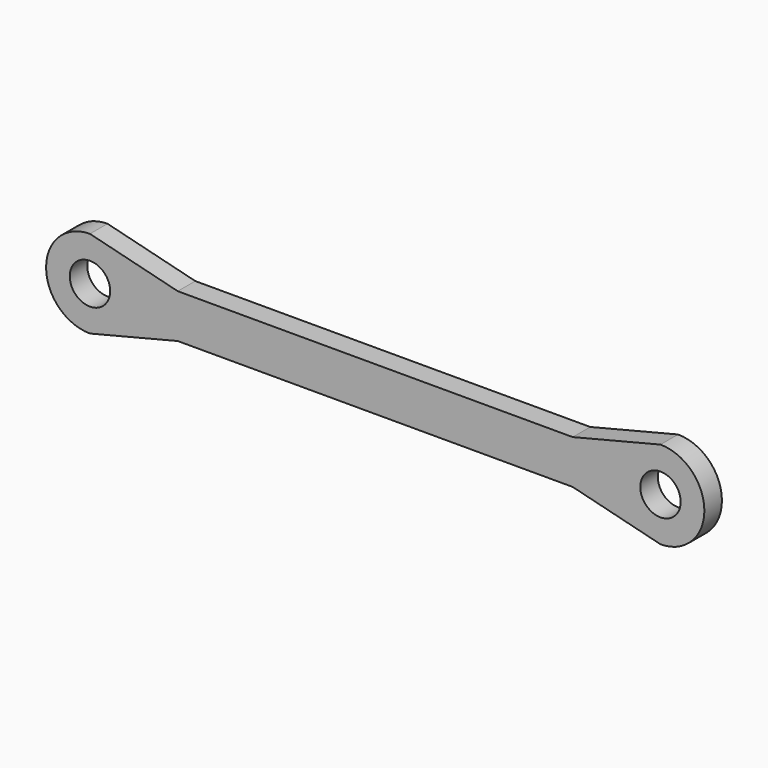
from build123d import *

# Parameters (mm, degrees)
SKETCH_R     = 4.6
PAD001_DEPTH = 5


with BuildPart() as part:
    # Sketch → Pad001 (new body)
    with BuildSketch(Plane.XZ):
        with BuildLine():
            ThreePointArc((-59.473739, -9.758096), (-49.473739, 0.241904), (-59.473739, 10.241904))
            Line((-79.473739, 5.241904), (-59.473739, 10.241904))
            Line((-169.473739, 5.241904), (-79.473739, 5.241904))
            Line((-189.473739, 10.241904), (-169.473739, 5.241904))
            ThreePointArc((-189.473739, 10.241904), (-199.473739, 0.241904), (-189.473739, -9.758096))
            Line((-189.473739, -9.758096), (-169.473739, -4.758096))
            Line((-169.473739, -4.758096), (-79.473739, -4.758096))
            Line((-79.473739, -4.758096), (-59.473739, -9.758096))
        make_face()
        with Locations((-59.473739, 0.241904)):
            Circle(SKETCH_R, mode=Mode.SUBTRACT)
        with Locations((-189.473739, 0.241904)):
            Circle(SKETCH_R, mode=Mode.SUBTRACT)
    extrude(amount=PAD001_DEPTH)


solid = part.part
